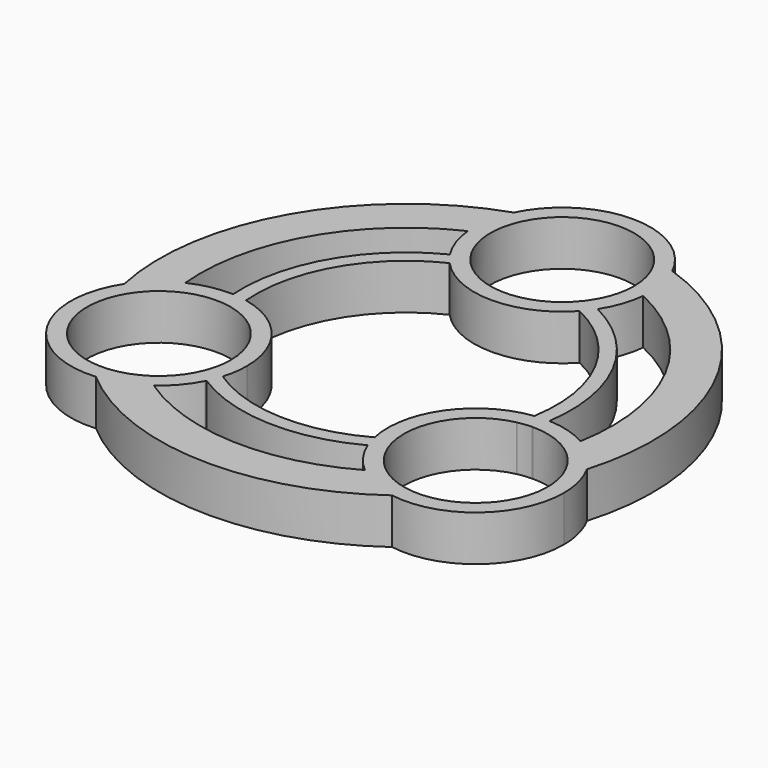
from build123d import *

# Parameters (mm, degrees)
F0_R     = 11.05
F1_DEPTH = 7
F3_DEPTH = 7
F4_DEPTH = 7


with BuildPart() as f1:
    # F0 (on Top) → F1 (new body)
    with BuildSketch(Plane.XY):
        with BuildLine():
            ThreePointArc((13.488193, 28.70727), (13.534539, 29.352897), (13.55, 30))
            ThreePointArc((13.55, 30), (13.20438, 33.040864), (12.185151, 35.9266))
            ThreePointArc((12.185151, 35.9266), (0, 43.55), (-12.185151, 35.9266))
            ThreePointArc((-12.185151, 35.9266), (-13.334535, 32.406796), (-13.488193, 28.70727))
            ThreePointArc((-13.488193, 28.70727), (-12.828695, 25.637996), (-11.480581, 22.802865))
            ThreePointArc((-11.480581, 22.802865), (0, 16.45), (11.480581, 22.802865))
            ThreePointArc((11.480581, 22.802865), (12.828695, 25.637996), (13.488193, 28.70727))
        make_face()
        with Locations((0, 30)):
            Circle(F0_R, mode=Mode.SUBTRACT)
        with BuildLine():
            ThreePointArc((12.185151, 35.9266), (13.20438, 33.040864), (13.55, 30))
            ThreePointArc((13.55, 30), (13.534539, 29.352897), (13.488193, 28.70727))
            ThreePointArc((13.488193, 28.70727), (28.157661, 14.60085), (31.234669, -5.516715))
            ThreePointArc((31.234669, -5.516715), (34.169815, -7.77393), (36.384345, -10.741415))
            ThreePointArc((36.384345, -10.741415), (33.678256, 17.463494), (12.185151, 35.9266))
        make_face()
        with BuildLine():
            ThreePointArc((-13.488193, 28.70727), (-13.334535, 32.406796), (-12.185151, 35.9266))
            ThreePointArc((-12.185151, 35.9266), (-32.955792, 18.791336), (-37.124024, -7.810595))
            ThreePointArc((-37.124024, -7.810595), (-34.680269, -5.028838), (-31.574733, -3.012468))
            ThreePointArc((-31.574733, -3.012468), (-27.553625, 15.711029), (-13.488193, 28.70727))
        make_face()
        with BuildLine():
            ThreePointArc((38.069481, -17.285689), (37.641436, -13.906813), (36.384345, -10.741415))
            ThreePointArc((36.384345, -10.741415), (34.169815, -7.77393), (31.234669, -5.516715))
            ThreePointArc((31.234669, -5.516715), (28.346106, -4.287249), (25.252139, -3.755511))
            ThreePointArc((25.252139, -3.755511), (13.444849, -9.478319), (12.022155, -22.522037))
            ThreePointArc((12.022155, -22.522037), (13.562584, -25.257446), (15.691155, -27.564948))
            ThreePointArc((15.691155, -27.564948), (18.803373, -29.57099), (22.342429, -30.659654))
            ThreePointArc((22.342429, -30.659654), (33.297392, -27.608033), (38.069481, -17.285689))
        make_face()
        with Locations((24.519481, -17.285689)):
            Circle(F0_R, mode=Mode.SUBTRACT)
        with BuildLine():
            ThreePointArc((-31.574733, -3.012468), (-34.680269, -5.028838), (-37.124024, -7.810595))
            ThreePointArc((-37.124024, -7.810595), (-37.478901, -22.179596), (-24.712464, -28.783549))
            ThreePointArc((-24.712464, -28.783549), (-21.097968, -27.9801), (-17.835919, -26.228204))
            ThreePointArc((-17.835919, -26.228204), (-15.530394, -24.097492), (-13.777076, -21.493407))
            ThreePointArc((-13.777076, -21.493407), (-12.650556, -18.476376), (-12.267842, -15.278711))
            ThreePointArc((-12.267842, -15.278711), (-16.114684, -5.820845), (-25.470975, -1.733152))
            ThreePointArc((-25.470975, -1.733152), (-28.597456, -2.016877), (-31.574733, -3.012468))
        make_face()
        with Locations((-25.817842, -15.278711)):
            Circle(F0_R, mode=Mode.SUBTRACT)
        with BuildLine():
            ThreePointArc((-17.835919, -26.228204), (-21.097968, -27.9801), (-24.712464, -28.783549))
            ThreePointArc((-24.712464, -28.783549), (-1.51136, -37.906653), (22.342429, -30.659654))
            ThreePointArc((22.342429, -30.659654), (18.803373, -29.57099), (15.691155, -27.564948))
            ThreePointArc((15.691155, -27.564948), (-1.263615, -31.692933), (-17.835919, -26.228204))
        make_face()
    extrude(amount=F1_DEPTH)

    # F2 (on Top) → F3 (join)
    with BuildSketch(Plane.XY):
        with BuildLine():
            ThreePointArc((22.186179, -6.487718), (23.344779, -6.274527), (24.522428, -6.243789))
            ThreePointArc((24.522428, -6.243789), (22.462795, 11.65149), (9.020363, 23.642493))
            ThreePointArc((9.020363, 23.642493), (8.320455, 22.700455), (7.494648, 21.866579))
            ThreePointArc((7.494648, 21.866579), (20.523874, 10.634266), (22.186179, -6.487718))
        make_face()
        with BuildLine():
            ThreePointArc((13.539374, -18.735057), (-0.928614, -23.096638), (-14.999749, -17.587624))
            ThreePointArc((-14.999749, -17.587624), (-15.236978, -18.747162), (-15.725852, -19.825034))
            ThreePointArc((-15.725852, -19.825034), (-1.000586, -25.28504), (14.110088, -21.005709))
            ThreePointArc((14.110088, -21.005709), (13.711284, -19.898897), (13.539374, -18.735057))
        make_face()
        with BuildLine():
            ThreePointArc((-22.652675, -4.60145), (-20.066421, 11.474134), (-7.523773, 21.856575))
            ThreePointArc((-7.523773, 21.856575), (-8.361476, 22.681537), (-9.059772, 23.627419))
            ThreePointArc((-9.059772, 23.627419), (-21.948573, 12.593433), (-24.970128, -4.102083))
            Line((-24.970128, -4.102083), (-22.652675, -4.60145))
        make_face()
    extrude(amount=F3_DEPTH)

    # F2 (on Top) → F4 (join)
    with BuildSketch(Plane.XY):
        with BuildLine():
            ThreePointArc((22.186179, -6.487718), (23.344779, -6.274527), (24.522428, -6.243789))
            ThreePointArc((24.522428, -6.243789), (22.462795, 11.65149), (9.020363, 23.642493))
            ThreePointArc((9.020363, 23.642493), (8.320455, 22.700455), (7.494648, 21.866579))
            ThreePointArc((7.494648, 21.866579), (20.523874, 10.634266), (22.186179, -6.487718))
        make_face()
        with BuildLine():
            ThreePointArc((13.539374, -18.735057), (-0.928614, -23.096638), (-14.999749, -17.587624))
            ThreePointArc((-14.999749, -17.587624), (-15.236978, -18.747162), (-15.725852, -19.825034))
            ThreePointArc((-15.725852, -19.825034), (-1.000586, -25.28504), (14.110088, -21.005709))
            ThreePointArc((14.110088, -21.005709), (13.711284, -19.898897), (13.539374, -18.735057))
        make_face()
        with BuildLine():
            ThreePointArc((-22.652675, -4.60145), (-20.066421, 11.474134), (-7.523773, 21.856575))
            ThreePointArc((-7.523773, 21.856575), (-8.361476, 22.681537), (-9.059772, 23.627419))
            ThreePointArc((-9.059772, 23.627419), (-21.948573, 12.593433), (-24.970128, -4.102083))
            Line((-24.970128, -4.102083), (-22.652675, -4.60145))
        make_face()
    extrude(amount=F4_DEPTH)


solid = f1.part
